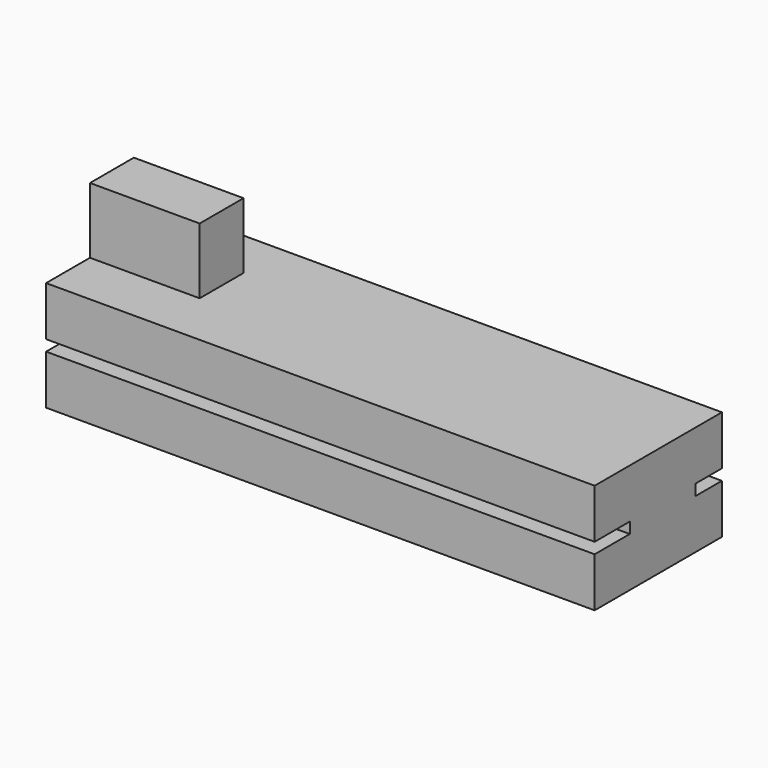
from build123d import *

# Parameters (mm, degrees)
BOX002_W     = 50
BOX002_H     = 3
BOX002_DEPTH = 1
BOX001_W     = 50
BOX001_H     = 4
BOX001_DEPTH = 1
BOX_W        = 50
BOX_H        = 14.5
BOX_DEPTH    = 10
BOX003_W     = 10
BOX003_H     = 5
BOX003_DEPTH = 16


with BuildPart() as cube002:
    # Box002 → Box002 (new body)
    with BuildSketch(Plane(origin=(0, 11.5, 4.5), x_dir=(1, 0, 0), z_dir=(0, 0, 1))):
        with Locations((25, 1.5)):
            Rectangle(BOX002_W, BOX002_H)
    extrude(amount=BOX002_DEPTH)


with BuildPart() as cube001:
    # Box001 → Box001 (new body)
    with BuildSketch(Plane.XY.offset(4.5)):
        with Locations((25, 2)):
            Rectangle(BOX001_W, BOX001_H)
    extrude(amount=BOX001_DEPTH)


with BuildPart() as cut001:
    # Box → Box (new body)
    with BuildSketch(Plane.XY):
        with Locations((25, 7.25)):
            Rectangle(BOX_W, BOX_H)
    extrude(amount=BOX_DEPTH)

    # Cut: cut Cube001
    add(cube001.part, mode=Mode.SUBTRACT)

    # Cut001: cut Cube002
    add(cube002.part, mode=Mode.SUBTRACT)


with BuildPart() as test_slider001:
    # Box003 → Box003 (new body)
    with BuildSketch(Plane(origin=(0, 5, 0), x_dir=(1, 0, 0), z_dir=(0, 0, 1))):
        with Locations((5, 2.5)):
            Rectangle(BOX003_W, BOX003_H)
    extrude(amount=BOX003_DEPTH)

    # Fusion: union Cut001
    add(cut001.part)


solid = test_slider001.part
